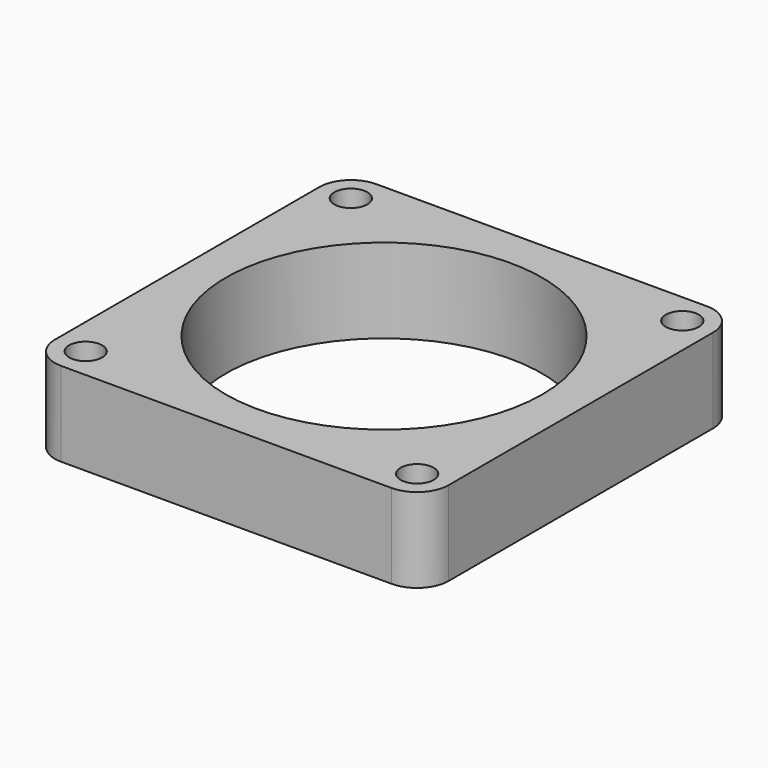
from build123d import *

# Parameters (mm, degrees)
F0_W     = 56
F0_H     = 56
F1_DEPTH = 12
F2_R     = 22.5
F3_DEPTH = 12
F5_D     = 4.7
F6_R     = 4.5


with BuildPart() as f1:
    # F0 (on Top) → F1 (new body)
    with BuildSketch(Plane.XY):
        with Locations((28, 28)):
            Rectangle(F0_W, F0_H)
    extrude(amount=F1_DEPTH)

    # F2 (on face) → F3 (cut, through all)
    with BuildSketch(Plane.XY.offset(12)):
        with Locations((28, 28)):
            Circle(F2_R)
    extrude(amount=-F3_DEPTH, mode=Mode.SUBTRACT)

    # F5 (through all)
    with Locations(Plane.XY.offset(12)):
        with Locations((4.43, 51.57), (51.57, 51.57), (51.57, 4.43), (4.43, 4.43)):
            Hole(F5_D / 2)

    # F6
    f6_edges = [f1.edges().sort_by_distance(p)[0] for p in [
        (56, 56, 6),
        (56, 0, 6),
        (0, 0, 6),
        (0, 56, 6),
    ]]
    fillet(f6_edges, radius=F6_R)


solid = f1.part
